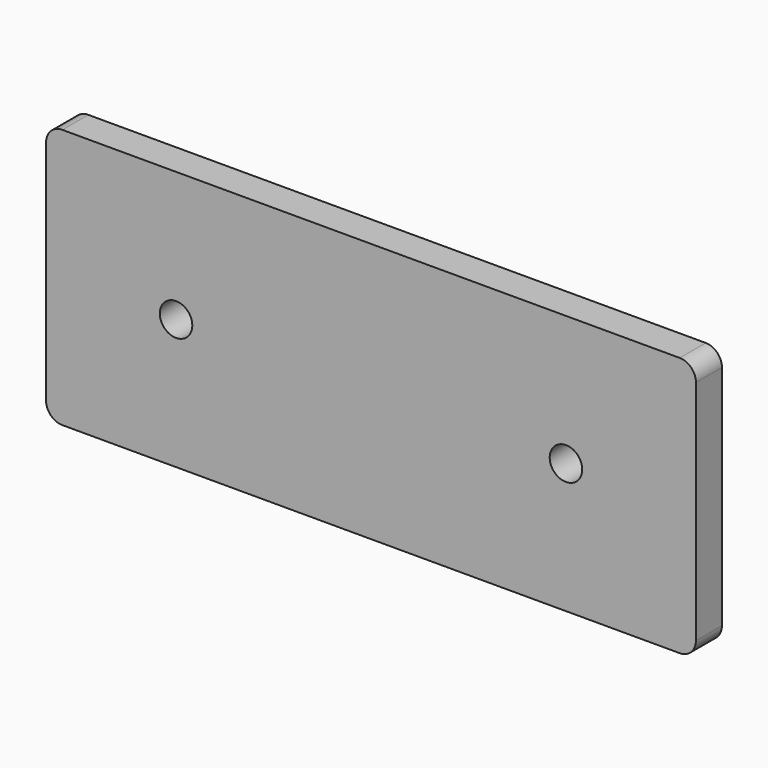
from build123d import *

# Parameters (mm, degrees)
F1_DEPTH = 12.7
F2_R     = 6.35
F3_DEPTH = 25.4


with BuildPart() as f1:
    # F0 (on Front) → F1 (new body)
    with BuildSketch(Plane.XZ):
        with BuildLine():
            Line((199.217161, 81.518799), (-42.082839, 81.518799))
            ThreePointArc((-42.082839, 81.518799), (-46.572967, 79.658927), (-48.432839, 75.168799))
            Line((-48.432839, 75.168799), (-48.432839, -13.731201))
            ThreePointArc((-48.432839, -13.731201), (-46.572967, -18.221329), (-42.082839, -20.081201))
            Line((-42.082839, -20.081201), (199.217161, -20.081201))
            ThreePointArc((199.217161, -20.081201), (203.707289, -18.221329), (205.567161, -13.731201))
            Line((205.567161, -13.731201), (205.567161, 75.168799))
            ThreePointArc((205.567161, 75.168799), (203.707289, 79.658927), (199.217161, 81.518799))
        make_face()
    extrude(amount=F1_DEPTH)

    # F2 (on face) → F3 (cut)
    with BuildSketch(Plane.XZ.offset(12.7)):
        with Locations((2.367161, 30.718799)):
            Circle(F2_R)
        with Locations((154.767161, 30.718799)):
            Circle(F2_R)
    extrude(amount=-F3_DEPTH, mode=Mode.SUBTRACT)


solid = f1.part
